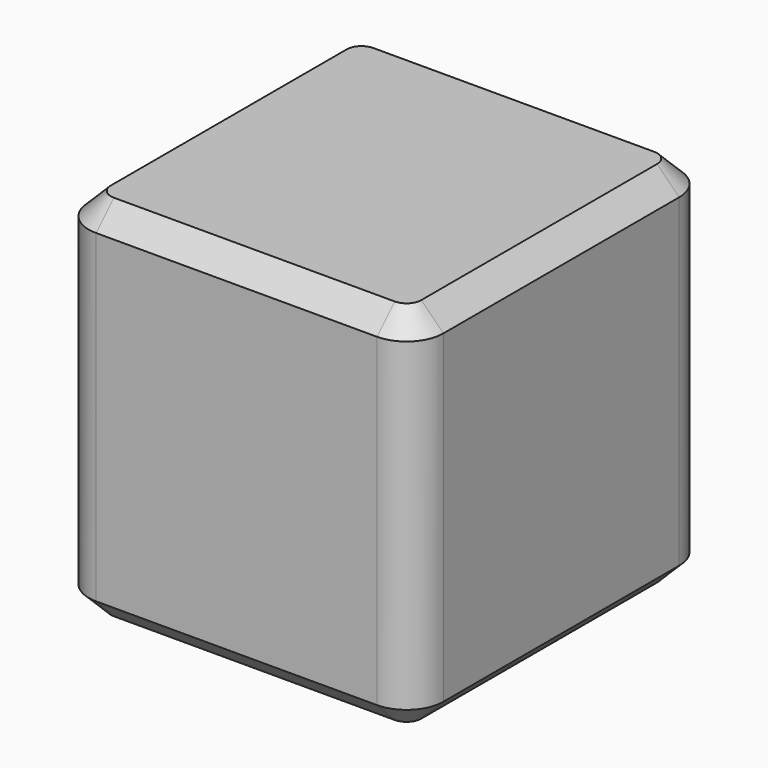
from build123d import *

# Parameters (mm, degrees)
F0_W     = 122.215742
F0_H     = 127
F1_DEPTH = 127
F2_R     = 12.7
F3_SIZE  = 7.62


with BuildPart() as f1:
    # F0 (on Top) → F1 (new body)
    with BuildSketch(Plane.XY):
        Rectangle(F0_W, F0_H)
    extrude(amount=F1_DEPTH)

    # F2
    f2_edges = [f1.edges().sort_by_distance(p)[0] for p in [
        (61.107871, 63.5, 63.5),
        (61.107871, -63.5, 63.5),
        (-61.107871, -63.5, 63.5),
        (-61.107871, 63.5, 63.5),
    ]]
    fillet(f2_edges, radius=F2_R)

    # F3
    f3_edges = [f1.edges().sort_by_distance(p)[0] for p in [
        (61.107871, 0, 127),
        (61.107871, 0, 0),
    ]]
    chamfer(f3_edges, length=F3_SIZE)


solid = f1.part
